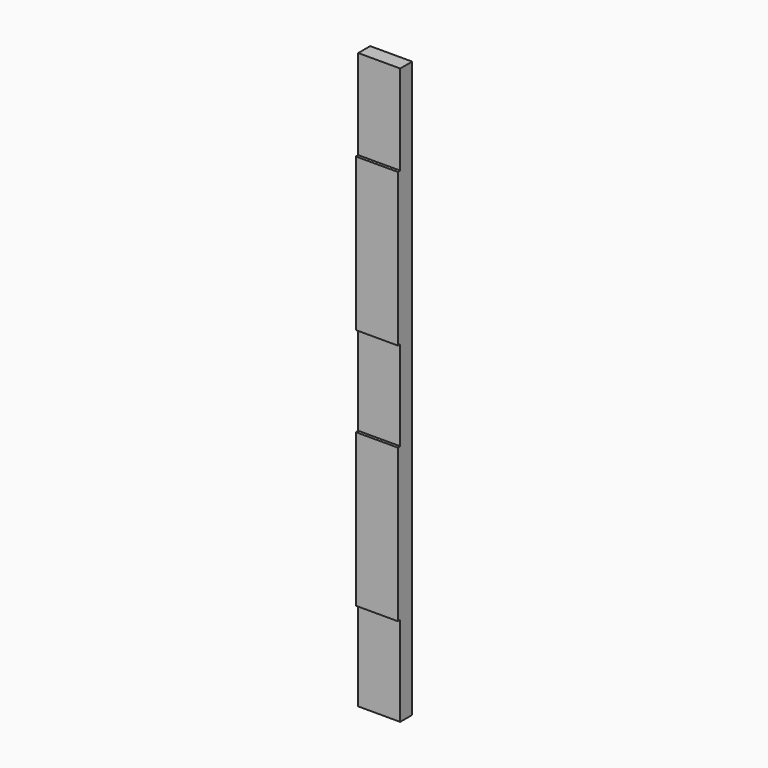
from build123d import *

# Parameters (mm, degrees)
F0_W     = 88.9
F0_H     = 1219.2
F1_DEPTH = 19.05
F2_W     = 88.9
F2_H     = 190.5
F3_DEPTH = 6.35


with BuildPart() as f1:
    # F0 (on Front) → F1 (new body, symmetric)
    with BuildSketch(Plane.XZ):
        Rectangle(F0_W, F0_H)
    extrude(amount=F1_DEPTH, both=True)

    # F2 (on face) → F3 (cut)
    with BuildSketch(Plane.XZ.offset(19.05)):
        with Locations((0, -514.35)):
            Rectangle(F2_W, F2_H)
        Rectangle(F2_W, F2_H)
        with Locations((0, 514.35)):
            Rectangle(F2_W, F2_H)
    extrude(amount=-F3_DEPTH, mode=Mode.SUBTRACT)


solid = f1.part
